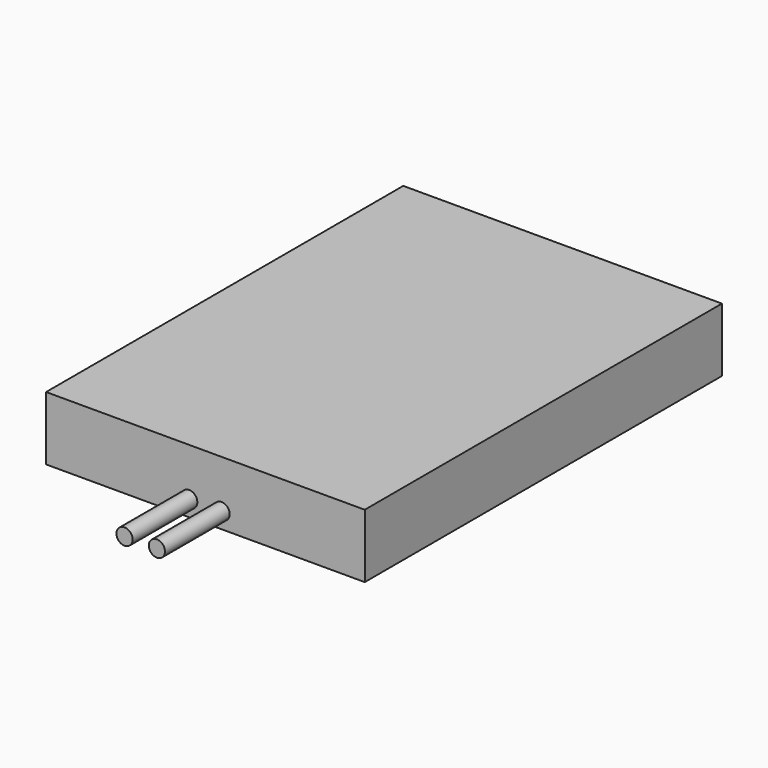
from build123d import *

# Parameters (mm, degrees)
F0_W     = 25.019
F0_H     = 35.052
F1_DEPTH = 2.5019
F2_R     = 0.635
F3_DEPTH = 6.35


with BuildPart() as f1:
    # F0 (on Top) → F1 (new body, symmetric)
    with BuildSketch(Plane.XY):
        Rectangle(F0_W, F0_H)
    extrude(amount=F1_DEPTH, both=True)

    # F2 (on face) → F3 (join)
    with BuildSketch(Plane.XZ.offset(17.526)):
        with Locations((-1.27, -1.25095)):
            Circle(F2_R)
        with Locations((1.27, -1.25095)):
            Circle(F2_R)
    extrude(amount=F3_DEPTH)


solid = f1.part
